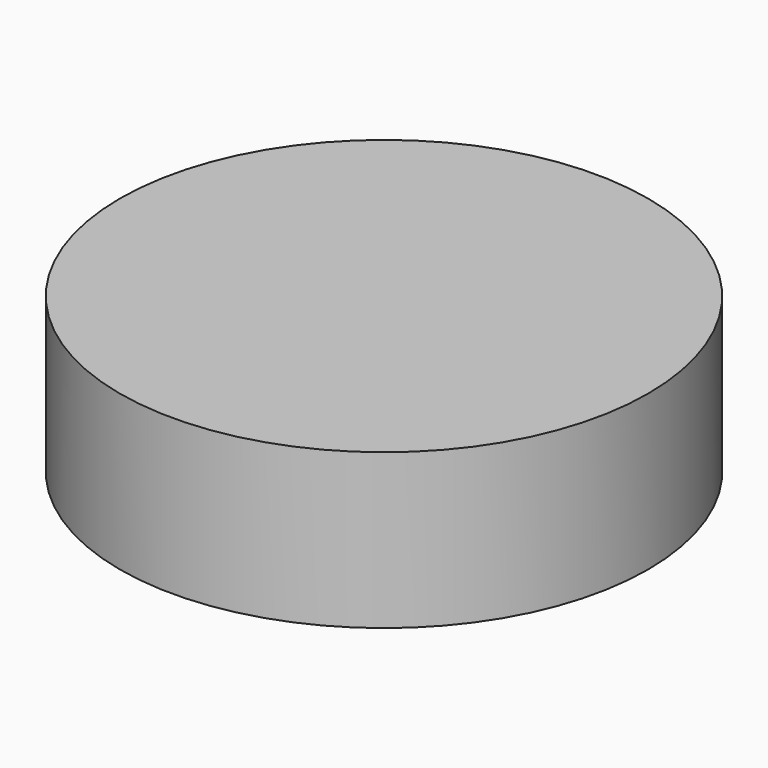
from build123d import *

# Parameters (mm, degrees)
F0_R     = 36.83
F1_DEPTH = 19.05
F2_R     = 34.671
F3_DEPTH = 97.79
F4_R     = 36.83
F5_DEPTH = 2.54


with BuildPart() as f1:
    # F0 (on Top) → F1 (new body)
    with BuildSketch(Plane.XY):
        Circle(F0_R)
    extrude(amount=F1_DEPTH)

    # F2 (on face) → F3 (cut)
    with BuildSketch(Plane.XY.offset(19.05)):
        Circle(F2_R)
    extrude(amount=-F3_DEPTH, mode=Mode.SUBTRACT)

    # F4 (on face) → F5 (join)
    with BuildSketch(Plane.XY.offset(19.05)):
        Circle(F4_R)
    extrude(amount=F5_DEPTH)


solid = f1.part
